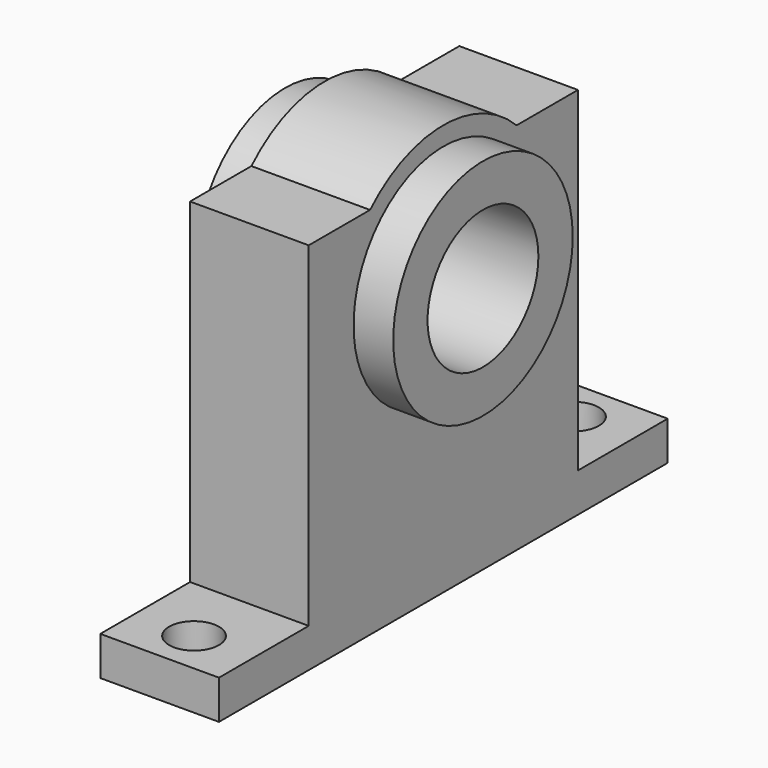
from build123d import *

# Parameters (mm, degrees)
F1_DEPTH      = 4.76
F1_DEPTH_BACK = 4.76
F2_R          = 9
F3_DEPTH      = 7.94
F3_DEPTH_BACK = 7.94
F4_R          = 5.55625
F5_DEPTH      = 15.881
F6_R          = 2
F7_DEPTH      = 33.001


with BuildPart() as f1:
    # F0 (on Right) → F1 (new body, two sides)
    with BuildSketch(Plane.YZ) as f1_sk:
        with BuildLine():
            Line((-7.348469, 30), (-13.5, 30))
            Line((-13.5, 30), (-13.5, 3.125))
            Line((-13.5, 3.125), (-22.5, 3.125))
            Line((-22.5, 3.125), (-22.5, 0))
            Line((-22.5, 0), (22.5, 0))
            Line((22.5, 0), (22.5, 3.125))
            Line((22.5, 3.125), (13.5, 3.125))
            Line((13.5, 3.125), (13.5, 30))
            Line((13.5, 30), (7.348469, 30))
            ThreePointArc((7.348469, 30), (0, 33), (-7.348469, 30))
        make_face()
    extrude(amount=F1_DEPTH)
    extrude(f1_sk.sketch, amount=-F1_DEPTH_BACK)

    # F2 (on Right) → F3 (join, two sides)
    with BuildSketch(Plane.YZ) as f3_sk:
        with Locations((0, 22.5)):
            Circle(F2_R)
    extrude(amount=F3_DEPTH)
    extrude(f3_sk.sketch, amount=-F3_DEPTH_BACK)

    # F4 (on face) → F5 (cut, through all)
    with BuildSketch(Plane.YZ.offset(7.94)):
        with Locations((0, 22.5)):
            Circle(F4_R)
    extrude(amount=-F5_DEPTH, mode=Mode.SUBTRACT)

    # F6 (on face) → F7 (cut, through all)
    with BuildSketch(Plane(origin=(0, 0, 0), x_dir=(1, 0, 0), z_dir=(0, 0, -1))):
        with Locations((0, 19.05)):
            Circle(F6_R)
        with Locations((0, -19.05)):
            Circle(F6_R)
    extrude(amount=-F7_DEPTH, mode=Mode.SUBTRACT)


solid = f1.part
